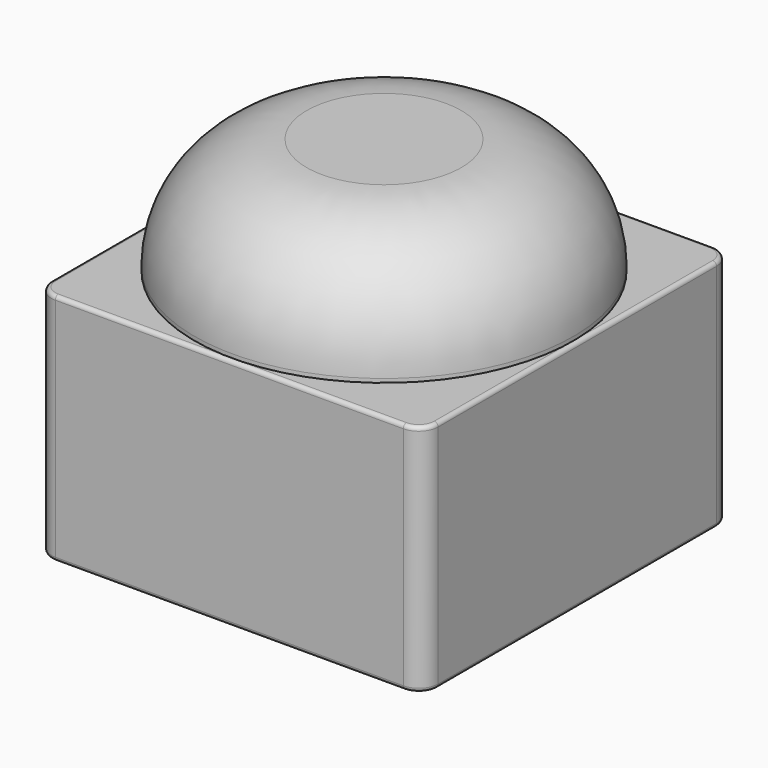
from build123d import *

# Parameters (mm, degrees)
SKETCH003_W             = 93
SKETCH003_H             = 93
PAD003_DEPTH            = 2
SKETCH011_R             = 1.5
POCKET_DEPTH            = 5
SKETCH013_W             = 3.95
SKETCH013_H             = 3.95
PAD012_DEPTH            = 7.5
FILLET001_R             = 2
FILLET002_R             = 4
SKETCH014_R             = 0.875
HOLE_DEPTH              = 7.474247
HOLE_TIPS_R             = 0.875
SKETCH004_W             = 100
SKETCH004_H             = 100
SKETCH004_R             = 12
PAD005_DEPTH            = 2.5
SKETCH005_W             = 100
SKETCH005_H             = 100
SKETCH005_W_2           = 95
SKETCH005_H_2           = 95
PAD006_DEPTH            = 58
FILLET003_R             = 5
FILLET004_R             = 1
FILLET005_R             = 1
PAD013_DEPTH            = 10
POCKET001_DEPTH         = 2
CHAMFER_SIZE            = 7
CHAMFER001_SIZE         = 7
CHAMFER002_SIZE         = 7
SKETCH018_R             = 1.325
HOLE001_DEPTH           = 5.20386
HOLE001_TIPS_R          = 1.325
SKETCH019_W             = 11
SKETCH019_H             = 7
POCKET002_DEPTH         = 3
FILLET006_R             = 1
FILLET007_R             = 10
SKETCH_R                = 49
PAD_DEPTH               = 30
FILLET_R                = 29
SKETCH006_R             = 11.25
PAD007_DEPTH            = 26.5
SKETCH007_W             = 35
SKETCH007_H             = 20
PAD008_DEPTH            = 23
BODY_PLACEMENT_ANGLE    = 90
SKETCH008_W             = 60
SKETCH008_H             = 40
SKETCH008_R             = 1.175
PAD009_DEPTH            = 1.5
SKETCH009_W             = 20.5
SKETCH009_H             = 35
PAD010_DEPTH            = 6
SKETCH012_W             = 7.5
SKETCH012_H             = 2.5
PAD011_DEPTH            = 1
BODY003_PLACEMENT_ANGLE = 180


with BuildPart() as bottom:
    # Sketch003 → Pad003 (new body)
    with BuildSketch(Plane.XY):
        Rectangle(SKETCH003_W, SKETCH003_H)
    extrude(amount=PAD003_DEPTH)

    # Sketch011 (on Face6 of Pad003) → Pocket (cut)
    with BuildSketch(Plane.XY.offset(2)):
        with Locations((-36.5, 36.5)):
            Circle(SKETCH011_R)
        with Locations((36.5, 36.5)):
            Circle(SKETCH011_R)
        with Locations((36.5, -36.5)):
            Circle(SKETCH011_R)
        with Locations((-36.5, -36.5)):
            Circle(SKETCH011_R)
    extrude(amount=-POCKET_DEPTH, mode=Mode.SUBTRACT)

    # Sketch013 (on Face5 of Pocket) → Pad012 (join)
    with BuildSketch(Plane.XY.offset(2)):
        with Locations((-28.025, 44.525)):
            Rectangle(SKETCH013_W, SKETCH013_H)
        with Locations((28.025, 44.525)):
            Rectangle(SKETCH013_W, SKETCH013_H)
        with Locations((28.025, 8.475)):
            Rectangle(SKETCH013_W, SKETCH013_H)
        with Locations((-28.025, 8.475)):
            Rectangle(SKETCH013_W, SKETCH013_H)
    extrude(amount=PAD012_DEPTH)

    # Fillet001
    fillet001_edges = [bottom.edges().sort_by_distance(p)[0] for p in [
        (30, 8.475, 2),
        (28.025, 10.45, 2),
        (28.025, 6.5, 2),
        (26.05, 8.475, 2),
        (28.025, 42.55, 2),
        (30, 44.525, 2),
        (-26.05, 8.475, 2),
        (-28.025, 6.5, 2),
        (-28.025, 10.45, 2),
        (-30, 8.475, 2),
        (-30, 44.525, 2),
        (26.05, 44.525, 2),
        (-28.025, 42.55, 2),
        (-26.05, 44.525, 2),
    ]]
    fillet(fillet001_edges, radius=FILLET001_R)

    # Fillet002
    fillet002_edges = [bottom.edges().sort_by_distance(p)[0] for p in [
        (46.5, -46.5, 1),
        (-46.5, -46.5, 1),
        (46.5, 46.5, 1),
        (-46.5, 46.5, 1),
    ]]
    fillet(fillet002_edges, radius=FILLET002_R)

    # Sketch014 (on Face35 of Fillet002) → Hole (cut)
    with BuildSketch(Plane.XY.offset(9.5)):
        with Locations((28.025, 44.525)):
            Circle(SKETCH014_R)
        with Locations((28.025, 8.475)):
            Circle(SKETCH014_R)
        with Locations((-28.025, 8.475)):
            Circle(SKETCH014_R)
        with Locations((-28.025, 44.525)):
            Circle(SKETCH014_R)
    extrude(amount=-HOLE_DEPTH, mode=Mode.SUBTRACT)

    # Hole tips → Hole tip 1 section 0
    with BuildSketch(Plane.XY.offset(2.025753), mode=Mode.PRIVATE) as hole_tip_1_s0:
        with Locations((28.025, 44.525)):
            Circle(HOLE_TIPS_R)
    loft([hole_tip_1_s0.sketch, Vertex(28.025, 44.525, 1.5)], mode=Mode.SUBTRACT)

    # Hole tips → Hole tip 2 section 0
    with BuildSketch(Plane.XY.offset(2.025753), mode=Mode.PRIVATE) as hole_tip_2_s0:
        with Locations((28.025, 8.475)):
            Circle(HOLE_TIPS_R)
    loft([hole_tip_2_s0.sketch, Vertex(28.025, 8.475, 1.5)], mode=Mode.SUBTRACT)

    # Hole tips → Hole tip 3 section 0
    with BuildSketch(Plane.XY.offset(2.025753), mode=Mode.PRIVATE) as hole_tip_3_s0:
        with Locations((-28.025, 8.475)):
            Circle(HOLE_TIPS_R)
    loft([hole_tip_3_s0.sketch, Vertex(-28.025, 8.475, 1.5)], mode=Mode.SUBTRACT)

    # Hole tips → Hole tip 4 section 0
    with BuildSketch(Plane.XY.offset(2.025753), mode=Mode.PRIVATE) as hole_tip_4_s0:
        with Locations((-28.025, 44.525)):
            Circle(HOLE_TIPS_R)
    loft([hole_tip_4_s0.sketch, Vertex(-28.025, 44.525, 1.5)], mode=Mode.SUBTRACT)


with BuildPart() as bottom_1:
    # Body001 placement: moved
    add(bottom.part.moved(Location((0, 0, -0.5))))


with BuildPart() as top:
    # Sketch004 → Pad005 (new body)
    with BuildSketch(Plane.XY):
        Rectangle(SKETCH004_W, SKETCH004_H)
        Circle(SKETCH004_R, mode=Mode.SUBTRACT)
    extrude(amount=-PAD005_DEPTH)

    # Sketch005 (on Face7 of Pad005) → Pad006 (join)
    with BuildSketch(Plane(origin=(0, 0, -2.5), x_dir=(1, 0, 0), z_dir=(0, 0, -1))):
        Rectangle(SKETCH005_W, SKETCH005_H)
        Rectangle(SKETCH005_W_2, SKETCH005_H_2, mode=Mode.SUBTRACT)
    extrude(amount=PAD006_DEPTH)

    # Fillet003
    fillet003_edges = [top.edges().sort_by_distance(p)[0] for p in [
        (50, 50, -31.5),
        (-50, 50, -31.5),
        (50, -50, -31.5),
        (-50, -50, -31.5),
        (47.5, 47.5, -31.5),
        (47.5, -47.5, -31.5),
        (-47.5, -47.5, -31.5),
        (-47.5, 47.5, -31.5),
    ]]
    fillet(fillet003_edges, radius=FILLET003_R)

    # Fillet004
    fillet004_edges = [top.edges().sort_by_distance(p)[0] for p in [
        (0, 50, 0),
        (-48.535534, 48.535534, 0),
        (48.535534, 48.535534, 0),
        (-50, 0, 0),
        (50, 0, 0),
        (-48.535534, -48.535534, 0),
        (48.535534, -48.535534, 0),
        (0, -50, 0),
        (-12, 0, 0),
    ]]
    fillet(fillet004_edges, radius=FILLET004_R)

    # Fillet005
    fillet005_edges = [top.edges().sort_by_distance(p)[0] for p in [
        (-50, 0, -60.5),
    ]]
    fillet(fillet005_edges, radius=FILLET005_R)

    # Sketch016 (on Face10 of Fillet005) → Pad013 (join)
    with BuildSketch(Plane(origin=(0, 0, -60.5), x_dir=(1, 0, 0), z_dir=(0, 0, -1))):
        Polygon((47.5, 47.5), (14.5, 47.5), (47.5, 14.5), align=None)
        Polygon((-47.5, 47.5), (-14.5, 47.5), (-47.5, 14.5), align=None)
        Polygon((-47.5, -14.5), (-47.5, -47.5), (-32.5, -47.5), (-32.5, -29.5), align=None)
        Polygon((32.5, -47.5), (47.5, -47.5), (47.5, -14.5), (32.5, -29.5), align=None)
    extrude(amount=-PAD013_DEPTH)

    # Sketch017 (on Face22 of Pad013) → Pocket001 (cut)
    with BuildSketch(Plane(origin=(0, 0, -60.5), x_dir=(1, 0, 0), z_dir=(0, 0, -1))):
        Polygon((-47.5, 14.5), (-47.5, 47.5), (-14.5, 47.5), align=None)
        Polygon((14.5, 47.5), (47.5, 47.5), (47.5, 14.5), align=None)
        Polygon((47.5, -14.5), (32.5, -29.5), (32.5, -47.5), (47.5, -47.5), align=None)
        Polygon((-47.5, -14.5), (-47.5, -47.5), (-32.5, -47.5), (-32.5, -29.5), align=None)
    extrude(amount=-POCKET001_DEPTH, mode=Mode.SUBTRACT)

    # Chamfer
    chamfer_edges = [top.edges().sort_by_distance(p)[0] for p in [
        (-32.5, 38.5, -50.5),
        (-40, 22, -50.5),
        (-31, -31, -50.5),
        (31, -31, -50.5),
        (32.5, 38.5, -50.5),
        (40, 22, -50.5),
    ]]
    chamfer(chamfer_edges, length=CHAMFER_SIZE)

    # Chamfer001
    chamfer001_edges = [top.edges().sort_by_distance(p)[0] for p in [
        (-39.5, 39.949747, -50.5),
        (-43.5, 28.399495, -50.5),
        (-35.949747, -35.949747, -50.5),
        (35.949747, -35.949747, -50.5),
        (43.5, 28.399495, -50.5),
        (39.5, 39.949747, -50.5),
    ]]
    chamfer(chamfer001_edges, length=CHAMFER001_SIZE)

    # Chamfer002
    chamfer002_edges = [top.edges().sort_by_distance(p)[0] for p in [
        (-40.899495, -40.899495, -50.5),
        (40.899495, -40.899495, -50.5),
    ]]
    chamfer(chamfer002_edges, length=CHAMFER002_SIZE)

    # Sketch018 (on Face63 of Chamfer002) → Hole001 (cut)
    with BuildSketch(Plane(origin=(0, 0, -58.5), x_dir=(1, 0, 0), z_dir=(0, 0, -1))):
        with Locations((-36.5, 36.5)):
            Circle(SKETCH018_R)
        with Locations((36.5, 36.5)):
            Circle(SKETCH018_R)
        with Locations((36.5, -36.5)):
            Circle(SKETCH018_R)
        with Locations((-36.5, -36.5)):
            Circle(SKETCH018_R)
    extrude(amount=-HOLE001_DEPTH, mode=Mode.SUBTRACT)

    # Hole001 tips → Hole001 tip 1 section 0
    with BuildSketch(Plane(origin=(0, 0, -53.29614), x_dir=(1, 0, 0), z_dir=(0, 0, -1)), mode=Mode.PRIVATE) as hole001_tip_1_s0:
        with Locations((-36.5, 36.5)):
            Circle(HOLE001_TIPS_R)
    loft([hole001_tip_1_s0.sketch, Vertex(-36.5, -36.5, -52.5)], mode=Mode.SUBTRACT)

    # Hole001 tips → Hole001 tip 2 section 0
    with BuildSketch(Plane(origin=(0, 0, -53.29614), x_dir=(1, 0, 0), z_dir=(0, 0, -1)), mode=Mode.PRIVATE) as hole001_tip_2_s0:
        with Locations((36.5, 36.5)):
            Circle(HOLE001_TIPS_R)
    loft([hole001_tip_2_s0.sketch, Vertex(36.5, -36.5, -52.5)], mode=Mode.SUBTRACT)

    # Hole001 tips → Hole001 tip 3 section 0
    with BuildSketch(Plane(origin=(0, 0, -53.29614), x_dir=(1, 0, 0), z_dir=(0, 0, -1)), mode=Mode.PRIVATE) as hole001_tip_3_s0:
        with Locations((36.5, -36.5)):
            Circle(HOLE001_TIPS_R)
    loft([hole001_tip_3_s0.sketch, Vertex(36.5, 36.5, -52.5)], mode=Mode.SUBTRACT)

    # Hole001 tips → Hole001 tip 4 section 0
    with BuildSketch(Plane(origin=(0, 0, -53.29614), x_dir=(1, 0, 0), z_dir=(0, 0, -1)), mode=Mode.PRIVATE) as hole001_tip_4_s0:
        with Locations((-36.5, -36.5)):
            Circle(HOLE001_TIPS_R)
    loft([hole001_tip_4_s0.sketch, Vertex(-36.5, 36.5, -52.5)], mode=Mode.SUBTRACT)

    # Sketch019 (on Face20 of Hole001) → Pocket002 (cut)
    with BuildSketch(Plane.XZ.offset(-47.5)):
        with Locations((0, -57)):
            Rectangle(SKETCH019_W, SKETCH019_H)
    extrude(amount=-POCKET002_DEPTH, mode=Mode.SUBTRACT)

    # Fillet006
    fillet006_edges = [top.edges().sort_by_distance(p)[0] for p in [
        (0, 50, -53.5),
        (-5.5, 50, -56.5),
        (5.5, 50, -56.5),
        (5.5, 48.75, -53.5),
        (-5.5, 48.75, -53.5),
    ]]
    fillet(fillet006_edges, radius=FILLET006_R)

    # Fillet007
    fillet007_edges = [top.edges().sort_by_distance(p)[0] for p in [
        (-46.035534, 46.035534, -2.5),
    ]]
    fillet(fillet007_edges, radius=FILLET007_R)


with BuildPart() as top_1:
    # Body002 placement: moved
    add(top.part.moved(Location((0, 0, 60))))


with BuildPart() as button:
    # Sketch → Pad (new body)
    with BuildSketch(Plane.XY):
        Circle(SKETCH_R)
    extrude(amount=PAD_DEPTH)

    # Fillet
    fillet_edges = [button.edges().sort_by_distance(p)[0] for p in [
        (-49, 0, 30),
    ]]
    fillet(fillet_edges, radius=FILLET_R)

    # Sketch006 (on Face3 of Fillet) → Pad007 (join)
    with BuildSketch(Plane(origin=(0, 0, 0), x_dir=(1, 0, 0), z_dir=(0, 0, -1))):
        Circle(SKETCH006_R)
    extrude(amount=PAD007_DEPTH)

    # Sketch007 (on Face6 of Pad007) → Pad008 (join)
    with BuildSketch(Plane(origin=(0, 0, -26.5), x_dir=(1, 0, 0), z_dir=(0, 0, -1))):
        Rectangle(SKETCH007_W, SKETCH007_H)
    extrude(amount=PAD008_DEPTH)


with BuildPart() as button_1:
    # Body placement: moved
    add(button.part.moved(Location((0, 0, 60))).rotate(Axis((0, 0, 60), (0, 0, 1)), BODY_PLACEMENT_ANGLE))


with BuildPart() as pcb:
    # Sketch008 → Pad009 (new body)
    with BuildSketch(Plane.XY):
        Rectangle(SKETCH008_W, SKETCH008_H)
        with Locations((-28.025, 18.025)):
            Circle(SKETCH008_R, mode=Mode.SUBTRACT)
        with Locations((28.025, 18.025)):
            Circle(SKETCH008_R, mode=Mode.SUBTRACT)
        with Locations((-28.025, -18.025)):
            Circle(SKETCH008_R, mode=Mode.SUBTRACT)
        with Locations((28.025, -18.025)):
            Circle(SKETCH008_R, mode=Mode.SUBTRACT)
    extrude(amount=PAD009_DEPTH)

    # Sketch009 (on Face6 of Pad009) → Pad010 (join)
    with BuildSketch(Plane.XY.offset(1.5)):
        with Locations((0, 3)):
            Rectangle(SKETCH009_W, SKETCH009_H)
    extrude(amount=PAD010_DEPTH)

    # Sketch012 (on Face15 of Pad010) → Pad011 (join, symmetric)
    with BuildSketch(Plane(origin=(0, 20.5, 0), x_dir=(-1, 0, 0), z_dir=(0, 1, 0))):
        with Locations((0, 7.05)):
            Rectangle(SKETCH012_W, SKETCH012_H)
    extrude(amount=PAD011_DEPTH, both=True)


with BuildPart() as pcb_1:
    # Body003 placement: moved
    add(pcb.part.moved(Location((0, 26.5, 10.5))).rotate(Axis((0, 26.5, 10.5), (0, 1, 0)), BODY003_PLACEMENT_ANGLE))


solid = Compound([bottom_1.part, top_1.part, button_1.part, pcb_1.part])
